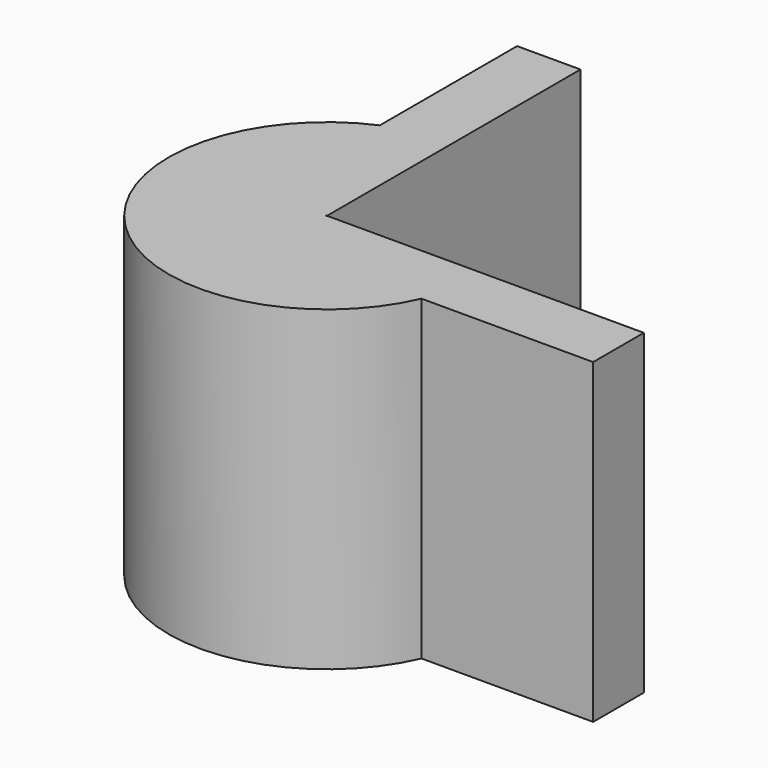
from build123d import *

# Parameters (mm, degrees)
F1_DEPTH = 10


with BuildPart() as f1:
    # F0 (on Top) → F1 (new body)
    with BuildSketch(Plane.XY):
        with BuildLine():
            Line((-2, 10), (-2, 4.582576))
            ThreePointArc((-2, 4.582576), (-1.021548, 4.894532), (0, 5))
            Line((0, 5), (0, 10))
            Line((0, 10), (-2, 10))
        make_face()
        with BuildLine():
            Line((4.582576, -2), (10, -2))
            Line((10, -2), (10, 0))
            Line((10, 0), (5, 0))
            ThreePointArc((5, 0), (4.894532, -1.021548), (4.582576, -2))
        make_face()
        with BuildLine():
            Line((0, -2), (4.582576, -2))
            ThreePointArc((4.582576, -2), (4.894532, -1.021548), (5, 0))
            Line((5, 0), (0.024659, 0))
            ThreePointArc((0.024659, 0), (0.017436, -0.017436), (0, -0.024659))
            Line((0, -0.024659), (0, -2))
        make_face()
        with BuildLine():
            ThreePointArc((0, 5), (-1.021548, 4.894532), (-2, 4.582576))
            Line((-2, 4.582576), (-2, 0))
            Line((-2, 0), (-0.024659, 0))
            ThreePointArc((-0.024659, 0), (-0.017436, 0.017436), (0, 0.024659))
            Line((0, 0.024659), (0, 5))
        make_face()
        with BuildLine():
            ThreePointArc((-2, 4.582576), (-3.535534, -3.535534), (4.582576, -2))
            Line((4.582576, -2), (0, -2))
            Line((0, -2), (0, -0.024659))
            ThreePointArc((0, -0.024659), (-0.017436, -0.017436), (-0.024659, 0))
            Line((-0.024659, 0), (-2, 0))
            Line((-2, 0), (-2, 4.582576))
        make_face()
    extrude(amount=F1_DEPTH)


solid = f1.part
